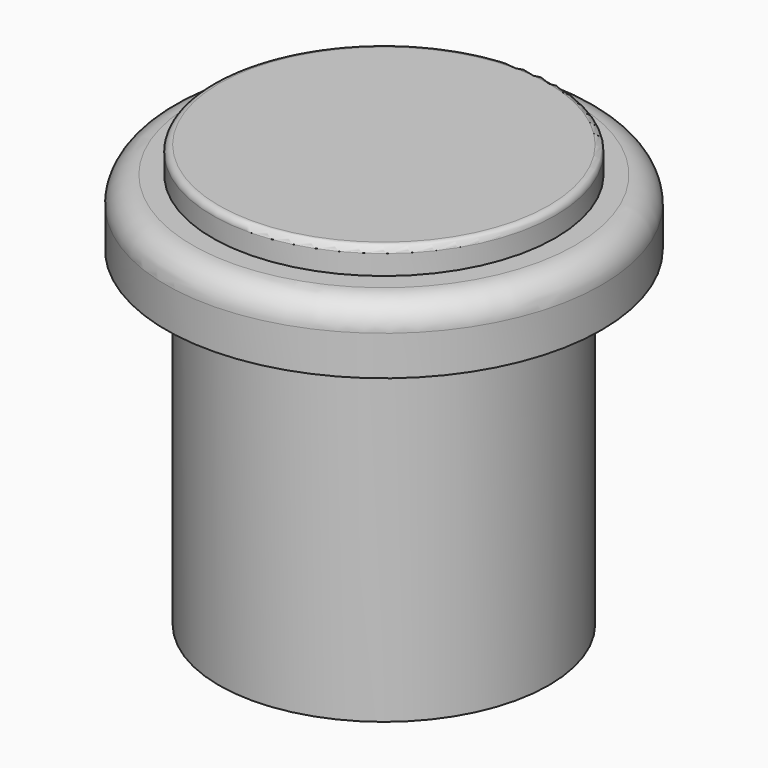
from build123d import *

# Parameters (mm, degrees)
SKETCH_R     = 12.5
PAD_DEPTH    = 25
SKETCH001_R  = 16.5
PAD001_DEPTH = 5
SKETCH002_R  = 13
PAD002_DEPTH = 2
FILLET_R     = 2
FILLET001_R  = 0.5


with BuildPart() as part:
    # Sketch → Pad (new body)
    with BuildSketch(Plane.XY):
        Circle(SKETCH_R)
    extrude(amount=PAD_DEPTH)

    # Sketch001 (on Face3 of Pad) → Pad001 (join)
    with BuildSketch(Plane.XY.offset(25)):
        Circle(SKETCH001_R)
    extrude(amount=PAD001_DEPTH)

    # Sketch002 (on Face3 of Pad001) → Pad002 (join)
    with BuildSketch(Plane.XY.offset(30)):
        Circle(SKETCH002_R)
    extrude(amount=PAD002_DEPTH)

    # Fillet
    fillet_edges = [part.edges().sort_by_distance(p)[0] for p in [
        (-16.5, 0, 30),
    ]]
    fillet(fillet_edges, radius=FILLET_R)

    # Fillet001
    fillet001_edges = [part.edges().sort_by_distance(p)[0] for p in [
        (-13, 0, 32),
    ]]
    fillet(fillet001_edges, radius=FILLET001_R)


solid = part.part
